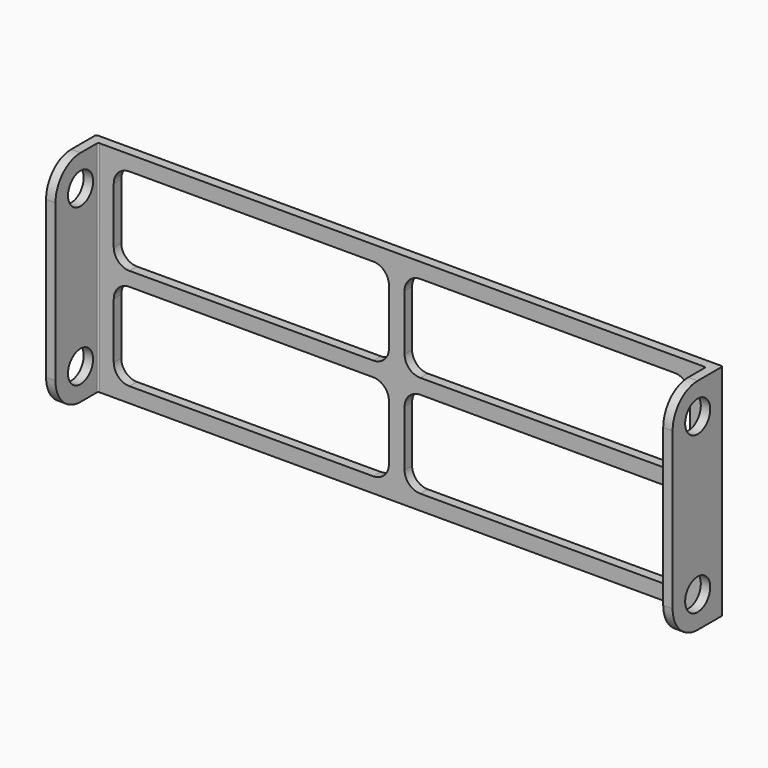
from build123d import *

# Parameters (mm, degrees)
F1_DEPTH = 140
F2_R     = 10
F3_DEPTH = 400.001
F5_DEPTH = 40.001


with BuildPart() as f1:
    # F0 (on Top) → F1 (new body)
    with BuildSketch(Plane.XY):
        with BuildLine():
            Line((202.315605, 14.572916), (-195.684395, 14.572916))
            ThreePointArc((-195.684395, 14.572916), (-196.391502, 14.280022), (-196.684395, 13.572916))
            Line((-196.684395, 13.572916), (-196.684395, -25.427084))
            Line((-196.684395, -25.427084), (-190.684395, -25.427084))
            Line((-190.684395, -25.427084), (-190.684395, 7.572916))
            ThreePointArc((-190.684395, 7.572916), (-190.391502, 8.280022), (-189.684395, 8.572916))
            Line((-189.684395, 8.572916), (196.315605, 8.572916))
            ThreePointArc((196.315605, 8.572916), (197.022712, 8.280022), (197.315605, 7.572916))
            Line((197.315605, 7.572916), (197.315605, -25.427084))
            Line((197.315605, -25.427084), (203.315605, -25.427084))
            Line((203.315605, -25.427084), (203.315605, 13.572916))
            ThreePointArc((203.315605, 13.572916), (203.022712, 14.280022), (202.315605, 14.572916))
        make_face()
    extrude(amount=F1_DEPTH)

    # F2 (on face) → F3 (cut, through all)
    with BuildSketch(Plane.YZ.offset(203.315605)):
        with BuildLine():
            Line((3.824211, 140.531208), (-66.175789, 140.531208))
            Line((-66.175789, 140.531208), (-66.175789, -19.468792))
            Line((-66.175789, -19.468792), (3.824211, -19.468792))
            Line((3.824211, -19.468792), (3.824211, 0))
            Line((3.824211, 0), (-5.427084, 0))
            ThreePointArc((-5.427084, 0), (-19.56922, 5.857864), (-25.427084, 20))
            Line((-25.427084, 20), (-25.427084, 120))
            ThreePointArc((-25.427084, 120), (-19.56922, 134.142136), (-5.427084, 140))
            Line((-5.427084, 140), (3.824211, 140))
            Line((3.824211, 140), (3.824211, 140.531208))
        make_face()
        with Locations((-5.427084, 20)):
            Circle(F2_R)
        with Locations((-5.427084, 120)):
            Circle(F2_R)
    extrude(amount=-F3_DEPTH, mode=Mode.SUBTRACT)

    # F4 (on face) → F5 (cut, through all)
    with BuildSketch(Plane(origin=(0, 14.572916, 0), x_dir=(-1, 0, 0), z_dir=(0, 1, 0))):
        with BuildLine():
            ThreePointArc((-187.315605, 84.966576), (-184.3914, 77.900238), (-177.328978, 74.966585))
            Line((-177.328978, 74.966585), (-15.013373, 74.749518))
            ThreePointArc((-15.013373, 74.749518), (-7.933662, 77.673715), (-5, 84.749509))
            Line((-5, 84.749509), (-5, 120.333677))
            ThreePointArc((-5, 120.333677), (-7.928932, 127.404745), (-15, 130.333677))
            Line((-15, 130.333677), (-177.315605, 130.333677))
            ThreePointArc((-177.315605, 130.333677), (-184.386673, 127.404745), (-187.315605, 120.333677))
            Line((-187.315605, 120.333677), (-187.315605, 84.966576))
        make_face()
        with BuildLine():
            Line((180.684395, 84.50119), (180.684395, 120.333677))
            ThreePointArc((180.684395, 120.333677), (177.755463, 127.404745), (170.684395, 130.333677))
            Line((170.684395, 130.333677), (15, 130.333677))
            ThreePointArc((15, 130.333677), (7.928932, 127.404745), (5, 120.333677))
            Line((5, 120.333677), (5, 84.709389))
            ThreePointArc((5, 84.709389), (7.924206, 77.643051), (14.986627, 74.709398))
            Line((14.986627, 74.709398), (170.671022, 74.501199))
            ThreePointArc((170.671022, 74.501199), (177.750733, 77.425396), (180.684395, 84.50119))
        make_face()
        with BuildLine():
            ThreePointArc((-187.315605, 19.666323), (-184.386673, 12.595255), (-177.315605, 9.666323))
            Line((-177.315605, 9.666323), (-15, 9.666323))
            ThreePointArc((-15, 9.666323), (-7.928932, 12.595255), (-5, 19.666323))
            Line((-5, 19.666323), (-5, 55.250491))
            ThreePointArc((-5, 55.250491), (-7.933662, 62.326285), (-15.013373, 65.250482))
            Line((-15.013373, 65.250482), (-177.328978, 65.033415))
            ThreePointArc((-177.328978, 65.033415), (-184.3914, 62.099762), (-187.315605, 55.033424))
            Line((-187.315605, 55.033424), (-187.315605, 19.666323))
        make_face()
        with BuildLine():
            ThreePointArc((5, 19.666323), (7.928932, 12.595255), (15, 9.666323))
            Line((15, 9.666323), (170.684395, 9.666323))
            ThreePointArc((170.684395, 9.666323), (177.755463, 12.595255), (180.684395, 19.666323))
            Line((180.684395, 19.666323), (180.684395, 55.49881))
            ThreePointArc((180.684395, 55.49881), (177.750733, 62.574604), (170.671022, 65.498801))
            Line((170.671022, 65.498801), (14.986627, 65.290602))
            ThreePointArc((14.986627, 65.290602), (7.924206, 62.356949), (5, 55.290611))
            Line((5, 55.290611), (5, 19.666323))
        make_face()
    extrude(amount=-F5_DEPTH, mode=Mode.SUBTRACT)


solid = f1.part
